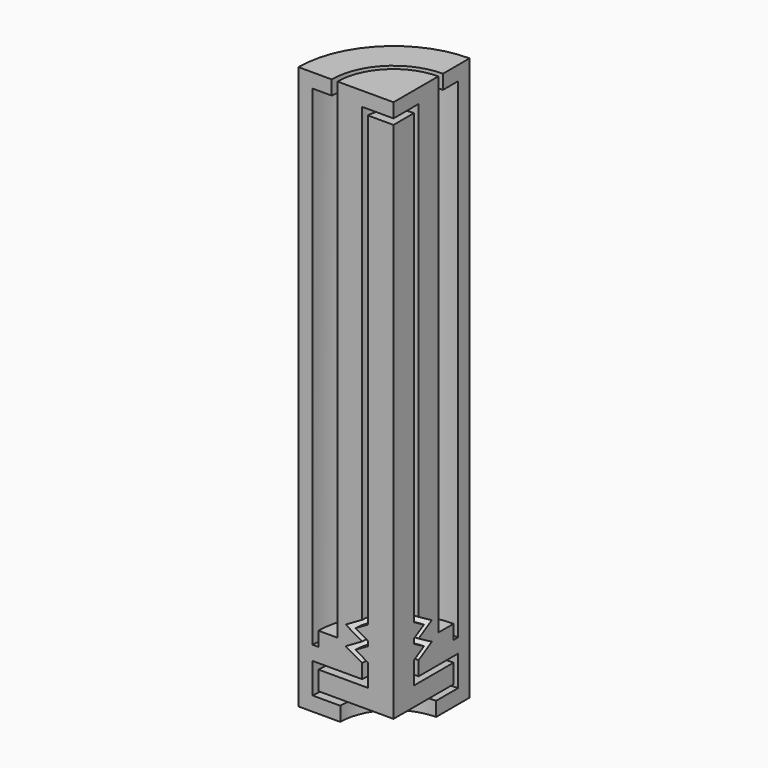
from build123d import *

# Parameters (mm, degrees)
F1_ANGLE = 90


with BuildPart() as f1:
    # F0 (on Front) → F1 (revolve)
    with BuildSketch(Plane.XZ):
        Polygon((-8.5, -1.5), (-3.3, -1.5), (-3.3, 0), (-7.9, 0), (-8.5, 0), (-8.5, 51.5), (-6.5, 51.5), (-6.5, 53), (-10, 53), (-10, -6.2), (-5.6, -6.2), (-5.6, -4.7), (-8.5, -4.7), align=None)
        Polygon((-7.9, 0), (-3.3, 0), (-5.0320508076, 1), (-3.3, 2), (-5.0320508076, 3), (-3.3, 4), (-3.3, 51.5), (0, 51.5), (0, 53), (-5.9, 53), (-5.9, 1.5), (-7.9, 1.5), align=None)
    revolve(axis=Axis((0, 0, 0), (0, 0, -1)), revolution_arc=F1_ANGLE)


with BuildPart() as f1b:
    # F0 (on Front) → F1, piece 2 (revolve)
    with BuildSketch(Plane.XZ):
        Polygon((-2.7, 1.75), (-2.7, 0.25), (-2.7, 0), (-2.7, -2.1), (-7.9, -2.1), (-7.9, -4.1), (0, -4.1), (0, 50), (0, 50.9), (-2.7, 50.9), (-2.7, 3.75), (-2.7, 2.25), align=None)
        Polygon((-3.9990381057, 1), (-3.3, 0.5964101615), (-3.3, 1.4035898385), align=None)
        Polygon((-3.3, 1.4035898385), (-3.3, 0.5964101615), (-2.7, 0.25), (-2.7, 1.75), align=None)
        Polygon((-3.9990381057, 3), (-3.3, 2.5964101615), (-3.3, 3.4035898385), align=None)
        Polygon((-3.3, 3.4035898385), (-3.3, 2.5964101615), (-2.7, 2.25), (-2.7, 3.75), align=None)
    revolve(axis=Axis((0, 0, 0), (0, 0, -1)), revolution_arc=F1_ANGLE)


solid = Compound([f1.part, f1b.part])
